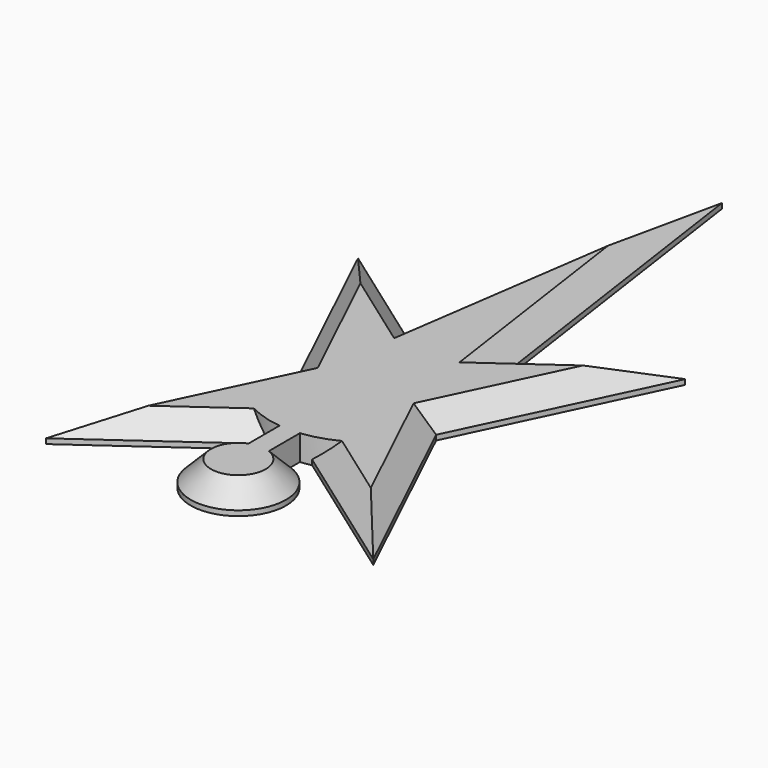
from build123d import *

# Parameters (mm, degrees)
F1_DEPTH = 2.54
F2_SIZE  = 2.032
F3_SCALE = 1.2


with BuildPart() as f1:
    # F0 (on Top) → F1 (new body)
    with BuildSketch(Plane.XY):
        with BuildLine():
            Line((4.7955396725, 11.2255265503), (0, 44.45))
            Line((0, 44.45), (-4.7955396725, 11.2255265503))
            Line((-4.7955396725, 11.2255265503), (-16.326805286, 19.4575288552))
            Line((-16.326805286, 19.4575288552), (-7.0366641055, 0))
            Line((-7.0366641055, 0), (-16.326805286, -19.4575288552))
            Line((-16.326805286, -19.4575288552), (-2.0887149606, -9.2931638753))
            ThreePointArc((-2.0887149606, -9.2931638753), (-1.5548922201, -9.3972301868), (-1.016, -9.4706583193))
            Line((-1.016, -9.4706583193), (-1.016, -11.2221352642))
            ThreePointArc((-1.016, -11.2221352642), (0, -20.6375), (1.016, -11.2221352642))
            Line((1.016, -11.2221352642), (1.016, -9.4706583193))
            ThreePointArc((1.016, -9.4706583193), (1.5548922201, -9.3972301868), (2.0887149606, -9.2931638753))
            Line((2.0887149606, -9.2931638753), (16.326805286, -19.4575288552))
            Line((16.326805286, -19.4575288552), (7.0366641055, 0))
            Line((7.0366641055, 0), (16.326805286, 19.4575288552))
            Line((16.326805286, 19.4575288552), (4.7955396725, 11.2255265503))
        make_face()
    extrude(amount=F1_DEPTH)

    # F2
    f2_edges = [f1.edges().sort_by_distance(p)[0] for p in [
        (-2.39777, 27.837763, 2.54),
        (10.561172, 15.341528, 2.54),
        (11.681735, 9.728764, 2.54),
        (-10.561172, 15.341528, 2.54),
        (-11.681735, 9.728764, 2.54),
        (2.39777, 27.837763, 2.54),
        (11.681735, -9.728764, 2.54),
        (9.20776, -14.375346, 2.54),
        (-9.20776, -14.375346, 2.54),
        (-11.681735, -9.728764, 2.54),
        (0, -20.6375, 2.54),
    ]]
    chamfer(f2_edges, length=F2_SIZE)


with BuildPart() as f1_1:
    # F3: moved
    add(f1.part.scale(F3_SCALE))


solid = f1_1.part
